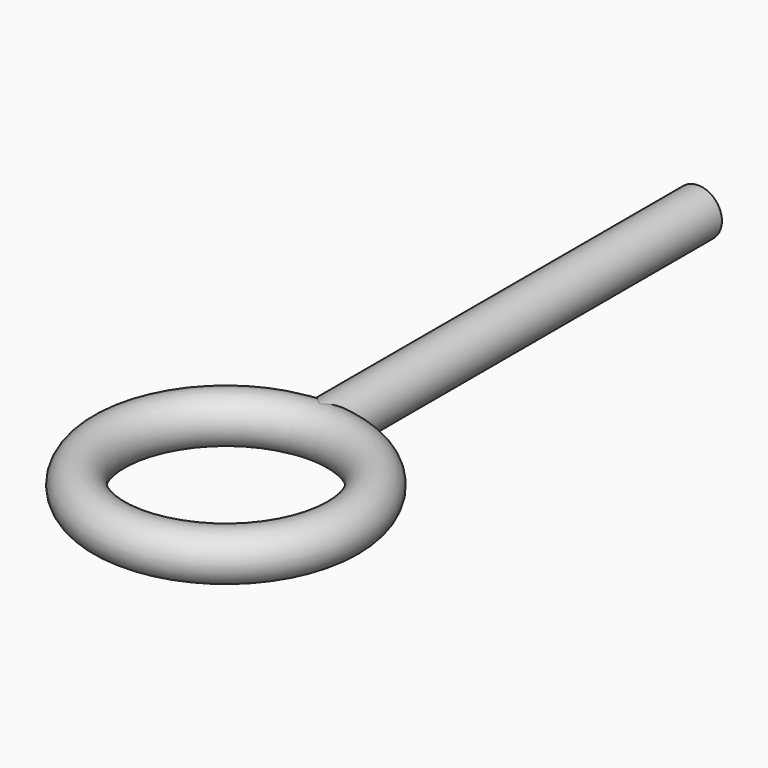
from build123d import *

# Parameters (mm, degrees)
F0_R     = 6.35
F1_DEPTH = 63.5
F3_R     = 6.35


with BuildPart() as f1:
    # F0 (on Front) → F1 (new body, symmetric)
    with BuildSketch(Plane.XZ):
        Circle(F0_R)
    extrude(amount=F1_DEPTH, both=True)

    # F4: sweep along a path in F2
    with BuildLine(Plane.XY) as f4_path:
        CenterArc((0, -94.833747), 31.315806, 0, 360)
    # F3 (on Right) → F4 (sweep)
    with BuildSketch(Plane.YZ):
        with Locations((-63.517941, 0)):
            Circle(F3_R)
    sweep(path=f4_path.line)


solid = f1.part
